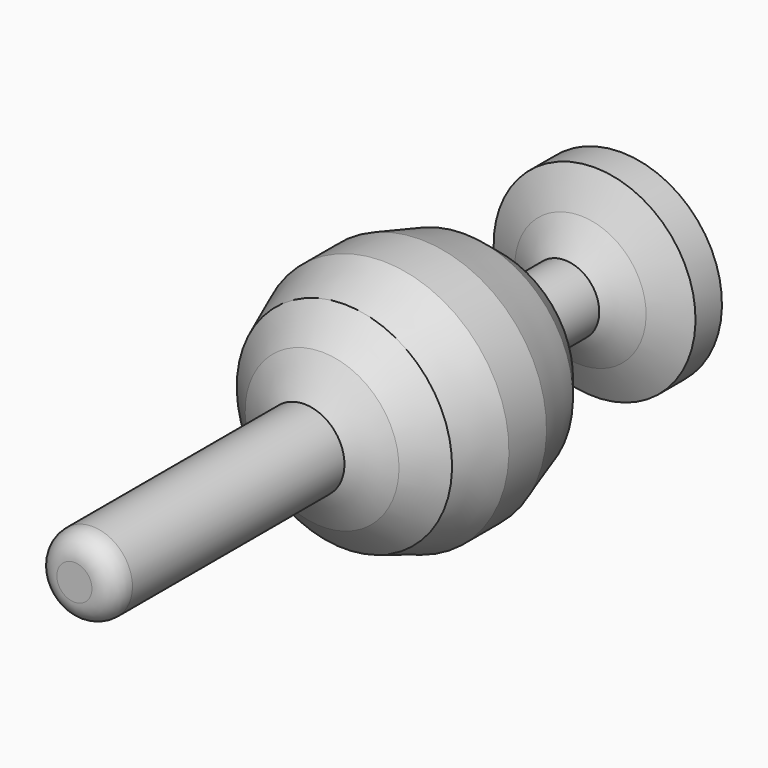
from build123d import *

# Parameters (mm, degrees)
F2_R = 5.08


with BuildPart() as f1:
    # F0 (on Right) → F1 (revolve)
    with BuildSketch(Plane.YZ):
        Polygon((-64.897239, 0), (0, 0), (86.770147, 0), (93.20876, 4.190467), (93.20876, 11.651084), (89.325145, 22.790901), (81.864543, 22.790901), (77.878736, 14.819287), (73.484123, 7.767476), (59.891507, 7.767476), (56.518897, 12.67308), (51.000088, 19.827098), (44.970281, 24.630502), (32.7297, 28.463185), (22.135049, 28.463185), (11.288136, 24.301), (4.981786, 17.364018), (0, 9.039648), (-64.897239, 9.039648), align=None)
    revolve(axis=Axis((0, -32.44862, 0), (0, -1, 0)))

    # F2
    f2_edges = [f1.edges().sort_by_distance(p)[0] for p in [
        (0, -64.897239, -9.039648),
    ]]
    fillet(f2_edges, radius=F2_R)


solid = f1.part
